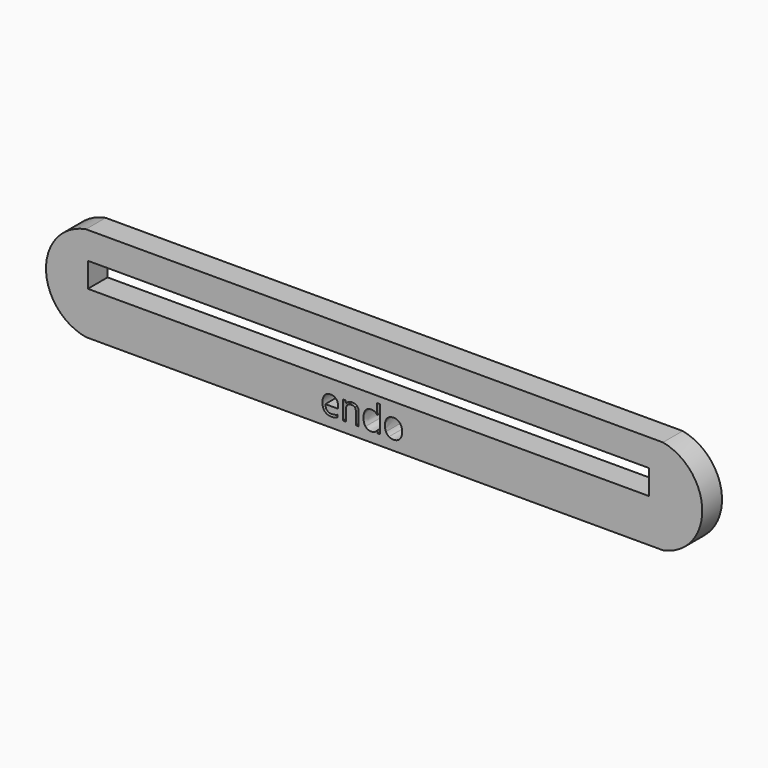
from build123d import *

# Parameters (mm, degrees)
F0_W     = 100
F0_H     = 4.4
F1_DEPTH = 4.4


with BuildPart() as f1:
    # F0 (on Front) → F1 (new body)
    with BuildSketch(Plane.XZ):
        with BuildLine():
            Line((52.5213778019, -35.3348962963), (-50.3410026431, -35.3348962963))
            ThreePointArc((-50.3410026431, -35.3348962963), (-57.4545573502, -43.799880892), (-50.3410026431, -52.2648654878))
            Line((-50.3410026431, -52.2648654878), (52.5213778019, -52.2648654878))
            ThreePointArc((52.5213778019, -52.2648654878), (59.5325622156, -43.799880892), (52.5213778019, -35.3348962963))
        make_face()
        with BuildLine():
            add(Edge.make_bspline(
                [(-6.0069680161, -50.4799766115), (-6.2456414194, -50.5306338237), (-6.5836808927, -50.5306338237)],
                knots=[0, 0, 0, 1, 1, 1], degree=2))
            add(Edge.make_bspline(
                [(-6.5836808927, -50.5306338237), (-7.3230813545, -50.5306338237), (-7.7512322148, -50.0795898002)],
                knots=[0, 0, 0, 1, 1, 1], degree=2))
            add(Edge.make_bspline(
                [(-7.7512322148, -50.0795898002), (-8.1793830751, -49.6285457767), (-8.1793830751, -48.8287463312)],
                knots=[0, 0, 0, 1, 1, 1], degree=2))
            add(Edge.make_bspline(
                [(-8.1793830751, -48.8287463312), (-8.1793830751, -48.0211534685), (-7.7819187952, -47.5462421046)],
                knots=[0, 0, 0, 1, 1, 1], degree=2))
            add(Edge.make_bspline(
                [(-7.7819187952, -47.5462421046), (-7.3844545154, -47.0713307408), (-6.7142206317, -47.0713307408)],
                knots=[0, 0, 0, 1, 1, 1], degree=2))
            add(Edge.make_bspline(
                [(-6.7142206317, -47.0713307408), (-6.08782472, -47.0713307408), (-5.7225082864, -47.4838947666)],
                knots=[0, 0, 0, 1, 1, 1], degree=2))
            add(Edge.make_bspline(
                [(-5.7225082864, -47.4838947666), (-5.3571918527, -47.8964587924), (-5.3571918527, -48.572537739)],
                knots=[0, 0, 0, 1, 1, 1], degree=2))
            Line((-5.3571918527, -48.572537739), (-5.3571918527, -48.8920678464))
            Line((-5.3571918527, -48.8920678464), (-7.6552757649, -48.8920678464))
            add(Edge.make_bspline(
                [(-7.6552757649, -48.8920678464), (-7.6396889304, -49.4794966718), (-7.3581517322, -49.7839270332)],
                knots=[0, 0, 0, 1, 1, 1], degree=2))
            add(Edge.make_bspline(
                [(-7.3581517322, -49.7839270332), (-7.0766145339, -50.0883573946), (-6.5651715267, -50.0883573946)],
                knots=[0, 0, 0, 1, 1, 1], degree=2))
            add(Edge.make_bspline(
                [(-6.5651715267, -50.0883573946), (-6.0264515592, -50.0883573946), (-5.5003958947, -49.8633224714)],
                knots=[0, 0, 0, 1, 1, 1], degree=2))
            Line((-5.5003958947, -49.8633224714), (-5.5003958947, -50.3143664949))
            add(Edge.make_bspline(
                [(-5.5003958947, -50.3143664949), (-5.7682946127, -50.4293193994), (-6.0069680161, -50.4799766115)],
                knots=[0, 0, 0, 1, 1, 1], degree=2))
        make_face(mode=Mode.SUBTRACT)
        with BuildLine():
            Line((-1.70597587, -50.4692606628), (-2.2115738142, -50.4692606628))
            Line((-2.2115738142, -50.4692606628), (-2.2115738142, -48.3104840839))
            add(Edge.make_bspline(
                [(-2.2115738142, -48.3104840839), (-2.2115738142, -47.9032780325), (-2.3971545626, -47.7021104497)],
                knots=[0, 0, 0, 1, 1, 1], degree=2))
            add(Edge.make_bspline(
                [(-2.3971545626, -47.7021104497), (-2.5827353109, -47.5009428669), (-2.9792254136, -47.5009428669)],
                knots=[0, 0, 0, 1, 1, 1], degree=2))
            add(Edge.make_bspline(
                [(-2.9792254136, -47.5009428669), (-3.5023585466, -47.5009428669), (-3.7459028358, -47.7839413308)],
                knots=[0, 0, 0, 1, 1, 1], degree=2))
            add(Edge.make_bspline(
                [(-3.7459028358, -47.7839413308), (-3.9894471249, -48.0669397948), (-3.9894471249, -48.7186643125)],
                knots=[0, 0, 0, 1, 1, 1], degree=2))
            Line((-3.9894471249, -48.7186643125), (-3.9894471249, -50.4692606628))
            Line((-3.9894471249, -50.4692606628), (-4.4950450691, -50.4692606628))
            Line((-4.4950450691, -50.4692606628), (-4.4950450691, -47.1327039017))
            Line((-4.4950450691, -47.1327039017), (-4.0839423091, -47.1327039017))
            Line((-4.0839423091, -47.1327039017), (-4.0021114279, -47.5895929881))
            Line((-4.0021114279, -47.5895929881), (-3.977756999, -47.5895929881))
            add(Edge.make_bspline(
                [(-3.977756999, -47.5895929881), (-3.821888654, -47.3431261675), (-3.5418127215, -47.2072284542)],
                knots=[0, 0, 0, 1, 1, 1], degree=2))
            add(Edge.make_bspline(
                [(-3.5418127215, -47.2072284542), (-3.261736789, -47.0713307408), (-2.9178522527, -47.0713307408)],
                knots=[0, 0, 0, 1, 1, 1], degree=2))
            add(Edge.make_bspline(
                [(-2.9178522527, -47.0713307408), (-2.3148365928, -47.0713307408), (-2.0104062314, -47.3621226221)],
                knots=[0, 0, 0, 1, 1, 1], degree=2))
            add(Edge.make_bspline(
                [(-2.0104062314, -47.3621226221), (-1.70597587, -47.6529145033), (-1.70597587, -48.2929488951)],
                knots=[0, 0, 0, 1, 1, 1], degree=2))
            Line((-1.70597587, -48.2929488951), (-1.70597587, -50.4692606628))
        make_face(mode=Mode.SUBTRACT)
        with BuildLine():
            Line((1.6695479773, -50.4692606628), (1.6023297535, -50.0221133479))
            Line((1.6023297535, -50.0221133479), (1.5750527932, -50.0221133479))
            add(Edge.make_bspline(
                [(1.5750527932, -50.0221133479), (1.225323194, -50.5306338237), (0.5278123499, -50.5306338237)],
                knots=[0, 0, 0, 1, 1, 1], degree=2))
            add(Edge.make_bspline(
                [(0.5278123499, -50.5306338237), (-0.1268346993, -50.5306338237), (-0.4906898672, -50.0829994202)],
                knots=[0, 0, 0, 1, 1, 1], degree=2))
            add(Edge.make_bspline(
                [(-0.4906898672, -50.0829994202), (-0.8545450352, -49.6353650168), (-0.8545450352, -48.8102369652)],
                knots=[0, 0, 0, 1, 1, 1], degree=2))
            add(Edge.make_bspline(
                [(-0.8545450352, -48.8102369652), (-0.8545450352, -47.9851089137), (-0.4892286015, -47.5282198273)],
                knots=[0, 0, 0, 1, 1, 1], degree=2))
            add(Edge.make_bspline(
                [(-0.4892286015, -47.5282198273), (-0.1239121678, -47.0713307408), (0.5278123499, -47.0713307408)],
                knots=[0, 0, 0, 1, 1, 1], degree=2))
            add(Edge.make_bspline(
                [(0.5278123499, -47.0713307408), (1.206813828, -47.0713307408), (1.5692077302, -47.5652385592)],
                knots=[0, 0, 0, 1, 1, 1], degree=2))
            Line((1.5692077302, -47.5652385592), (1.6091489936, -47.5652385592))
            Line((1.6091489936, -47.5652385592), (1.5877170962, -47.3246168015))
            Line((1.5877170962, -47.3246168015), (1.5750527932, -47.0898401068))
            Line((1.5750527932, -47.0898401068), (1.5750527932, -45.7318371506))
            Line((1.5750527932, -45.7318371506), (2.0806507374, -45.7318371506))
            Line((2.0806507374, -45.7318371506), (2.0806507374, -50.4692606628))
            Line((2.0806507374, -50.4692606628), (1.6695479773, -50.4692606628))
        make_face(mode=Mode.SUBTRACT)
        with Locations((0, -42.3694215596)):
            Rectangle(F0_W, F0_H, mode=Mode.SUBTRACT)
        with BuildLine():
            add(Edge.make_bspline(
                [(5.6193492585, -47.5374745102), (6.0319132843, -48.0036182796), (6.0319132843, -48.7975726622)],
                knots=[0, 0, 0, 1, 1, 1], degree=2))
            add(Edge.make_bspline(
                [(6.0319132843, -48.7975726622), (6.0319132843, -49.6139331194), (5.6212976128, -50.0722834715)],
                knots=[0, 0, 0, 1, 1, 1], degree=2))
            add(Edge.make_bspline(
                [(5.6212976128, -50.0722834715), (5.2106819413, -50.5306338237), (4.4858941369, -50.5306338237)],
                knots=[0, 0, 0, 1, 1, 1], degree=2))
            add(Edge.make_bspline(
                [(4.4858941369, -50.5306338237), (4.0377726449, -50.5306338237), (3.6909655771, -50.3202115578)],
                knots=[0, 0, 0, 1, 1, 1], degree=2))
            add(Edge.make_bspline(
                [(3.6909655771, -50.3202115578), (3.3441585094, -50.109789292), (3.155168141, -49.717195898)],
                knots=[0, 0, 0, 1, 1, 1], degree=2))
            add(Edge.make_bspline(
                [(3.155168141, -49.717195898), (2.9661777727, -49.3246025039), (2.9661777727, -48.7975726622)],
                knots=[0, 0, 0, 1, 1, 1], degree=2))
            add(Edge.make_bspline(
                [(2.9661777727, -48.7975726622), (2.9661777727, -47.9821863822), (3.3743580013, -47.5267585615)],
                knots=[0, 0, 0, 1, 1, 1], degree=2))
            add(Edge.make_bspline(
                [(3.3743580013, -47.5267585615), (3.7825382298, -47.0713307408), (4.5073260343, -47.0713307408)],
                knots=[0, 0, 0, 1, 1, 1], degree=2))
            add(Edge.make_bspline(
                [(4.5073260343, -47.0713307408), (5.2067852327, -47.0713307408), (5.6193492585, -47.5374745102)],
                knots=[0, 0, 0, 1, 1, 1], degree=2))
        make_face(mode=Mode.SUBTRACT)
    extrude(amount=F1_DEPTH)


solid = f1.part
